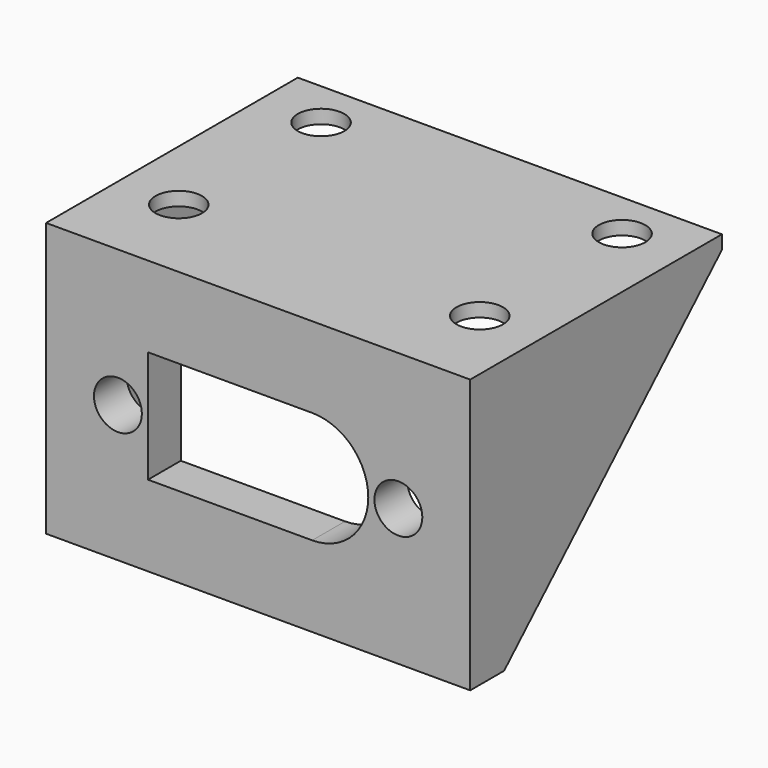
from build123d import *

# Parameters (mm, degrees)
SKETCH_W        = 31
SKETCH_H        = 20
SKETCH_R        = 1.75
PAD_DEPTH       = 3
PAD001_DEPTH    = 20
SKETCH002_R     = 1.7
HOLE_DEPTH      = 25
CHAMFER_1_SIZE2 = 19
CHAMFER_1_SIZE  = 19.9
CHAMFER_2_SIZE2 = 19
CHAMFER_2_SIZE  = 19.9


with BuildPart() as part:
    # Sketch → Pad (new body)
    with BuildSketch(Plane.XZ):
        with Locations((15.5, 10)):
            Rectangle(SKETCH_W, SKETCH_H)
        with Locations((25.75, 10)):
            Circle(SKETCH_R, mode=Mode.SUBTRACT)
        with Locations((5.25, 10)):
            Circle(SKETCH_R, mode=Mode.SUBTRACT)
        with BuildLine():
            ThreePointArc((19.45, 5.9), (23.55, 10), (19.45, 14.1))
            Line((19.45, 14.1), (7.45, 14.1))
            Line((7.45, 14.1), (7.45, 5.9))
            Line((7.45, 5.9), (19.45, 5.9))
        make_face(mode=Mode.SUBTRACT)
    extrude(amount=PAD_DEPTH)

    # Sketch001 (on Face11 of Pad) → Pad001 (join)
    with BuildSketch(Plane(origin=(0, 0, 0), x_dir=(1, 0, 0), z_dir=(0, 1, 0))):
        Polygon((31, 0), (31, -20), (0, -20), (0, 0), (1, 0), (1, -19), (30, -19), (30, 0), align=None)
    extrude(amount=PAD001_DEPTH)

    # Sketch002 (on Face13 of Pad001) → Hole (cut)
    with BuildSketch(Plane(origin=(0, 0, 19), x_dir=(1, 0, 0), z_dir=(0, 0, -1))):
        with Locations((4.5, -3.5)):
            Circle(SKETCH002_R)
        with Locations((26.5, -3.5)):
            Circle(SKETCH002_R)
        with Locations((26.5, -16.5)):
            Circle(SKETCH002_R)
        with Locations((4.5, -16.5)):
            Circle(SKETCH002_R)
    extrude(amount=-HOLE_DEPTH, mode=Mode.SUBTRACT)

    # Chamfer 1
    chamfer_1_edges = [part.edges().sort_by_distance(p)[0] for p in [
        (30.5, 20, 0),
    ]]
    chamfer_1_side = part.faces().sort_by_distance((30.5, 10, 0))[0]
    chamfer(chamfer_1_edges, length=CHAMFER_1_SIZE, length2=CHAMFER_1_SIZE2, reference=chamfer_1_side)

    # Chamfer 2
    chamfer_2_edges = [part.edges().sort_by_distance(p)[0] for p in [
        (0.5, 20, 0),
    ]]
    chamfer_2_side = part.faces().sort_by_distance((0.5, 10, 0))[0]
    chamfer(chamfer_2_edges, length=CHAMFER_2_SIZE, length2=CHAMFER_2_SIZE2, reference=chamfer_2_side)


solid = part.part
